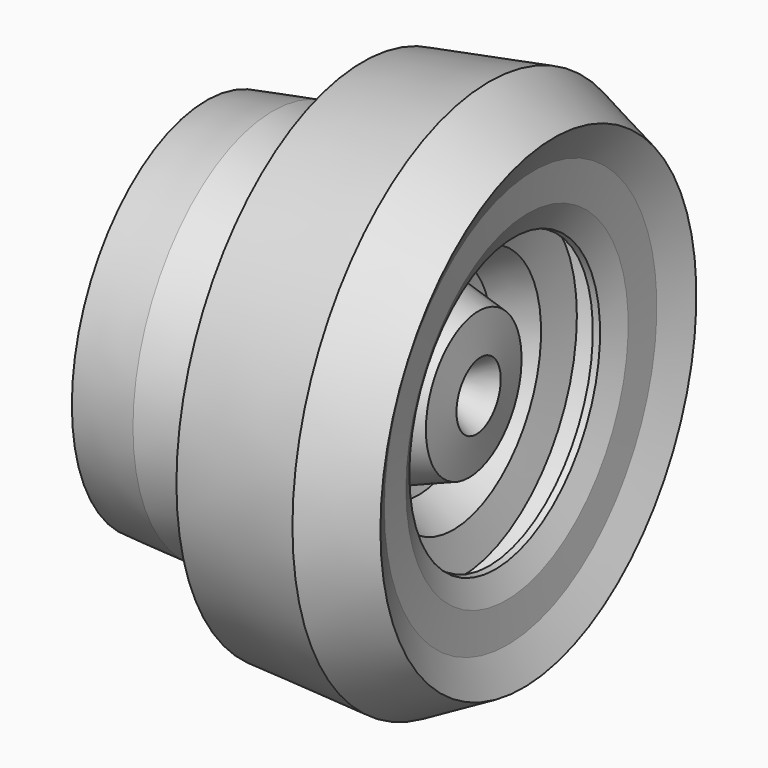
from build123d import *


with BuildPart() as f1:
    # F0 (on Top) → F1 (revolve)
    with BuildSketch(Plane.XY):
        Polygon((-46.406250447, 20.1154891402), (-30.5095128715, -21.2160330266), (-34.9116884172, -22.9279901832), (-43.2269051671, -19.9932083488), (-53.7432096899, -12.9008162767), (-64.0149489045, -7.0312502794), (-66.7051672935, -18.7703818083), (-66.7051672935, -38.0910336971), (-41.2703827024, -38.0910336971), (-19.7850654535, -31.732339412), (-21.4605983347, -28.308423236), (-9.9660325795, -22.6834248751), (8.3763608709, -16.5907324904), (-10.6997303665, -33.6888581514), (-5.5638612248, -60.1207125871), (15.9578826278, -60.1207125871), (42.7095489145, -60.1207125871), (66.5828809142, -44.2051626742), (58.2676678896, -31.732339412), (55.0883151591, -16.5907324904), (49.2665074484, -7.5181558132), (46.7730984092, -7.2758155875), (44.4394518833, -31.2864202052), (39.1915775836, -42.2486439347), (16.2024479359, -31.2432069331), (33.0919572228, -16.5907324904), (37.4796167016, -14.8573378101), (31.6100567579, 0), (16.9552299565, 7.0306546103), (14.9796204641, 11.3111417741), (34.0557061136, 20.1154891402), (34.0557061136, 36.0122285783), (11.3111417741, 47.0176674426), (-15.5910328031, 43.8383184373), (-25.3736432642, 37.9687510431), (-22.2819369673, 30.0316486084), (-21.4605983347, 23.0502728373), align=None)
    revolve(axis=Axis((-2.1399455145, 45.4279929399, 0), (0.9930888363, 0.1173650849, 0)))


solid = f1.part
